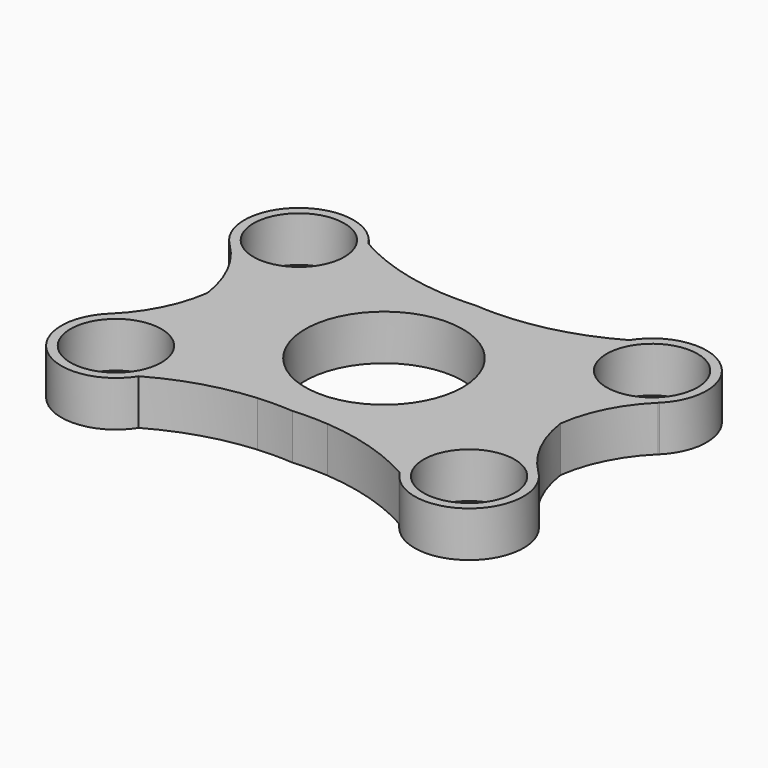
from build123d import *

# Parameters (mm, degrees)
F0_R     = 6.35
F0_R_2   = 10.9982
F1_DEPTH = 6.35


with BuildPart() as f1:
    # F0 (on Top) → F1 (new body)
    with BuildSketch(Plane.XY):
        with BuildLine():
            ThreePointArc((-18.222821, -20.043212), (-11.791308, -17.273974), (-4.91082, -15.973231))
            ThreePointArc((-4.91082, -15.973231), (-2.45541, -15.878683), (0, -15.973231))
            ThreePointArc((0, -15.973231), (2.45541, -15.878683), (4.91082, -15.973231))
            ThreePointArc((4.91082, -15.973231), (11.791308, -17.273974), (18.222821, -20.043212))
            ThreePointArc((18.222821, -20.043212), (29.442885, -21.909115), (30.017148, -10.549465))
            ThreePointArc((30.017148, -10.549465), (29.968539, -10.502516), (29.920106, -10.455386))
            ThreePointArc((29.920106, -10.455386), (26.418269, -5.667101), (24.664843, 0))
            ThreePointArc((24.664843, 0), (26.418269, 5.667101), (29.920106, 10.455386))
            ThreePointArc((29.920106, 10.455386), (29.968539, 10.502516), (30.017148, 10.549465))
            ThreePointArc((30.017148, 10.549465), (29.442885, 21.909115), (18.222821, 20.043212))
            ThreePointArc((18.222821, 20.043212), (11.791308, 17.273974), (4.91082, 15.973231))
            ThreePointArc((4.91082, 15.973231), (2.45541, 15.878683), (0, 15.973231))
            ThreePointArc((0, 15.973231), (-2.45541, 15.878683), (-4.91082, 15.973231))
            ThreePointArc((-4.91082, 15.973231), (-11.791308, 17.273974), (-18.222821, 20.043212))
            ThreePointArc((-18.222821, 20.043212), (-29.442885, 21.909115), (-30.017148, 10.549465))
            ThreePointArc((-30.017148, 10.549465), (-29.968539, 10.502516), (-29.920106, 10.455386))
            ThreePointArc((-29.920106, 10.455386), (-26.418269, 5.667101), (-24.664843, 0))
            ThreePointArc((-24.664843, 0), (-26.418269, -5.667101), (-29.920106, -10.455386))
            ThreePointArc((-29.920106, -10.455386), (-29.968539, -10.502516), (-30.017148, -10.549465))
            ThreePointArc((-30.017148, -10.549465), (-29.442885, -21.909115), (-18.222821, -20.043212))
        make_face()
        with Locations((-24.664843, -15.973231)):
            Circle(F0_R, mode=Mode.SUBTRACT)
        with Locations((24.664843, -15.973231)):
            Circle(F0_R, mode=Mode.SUBTRACT)
        Circle(F0_R_2, mode=Mode.SUBTRACT)
        with Locations((-24.664843, 15.973231)):
            Circle(F0_R, mode=Mode.SUBTRACT)
        with Locations((24.664843, 15.973231)):
            Circle(F0_R, mode=Mode.SUBTRACT)
    extrude(amount=F1_DEPTH)


solid = f1.part
